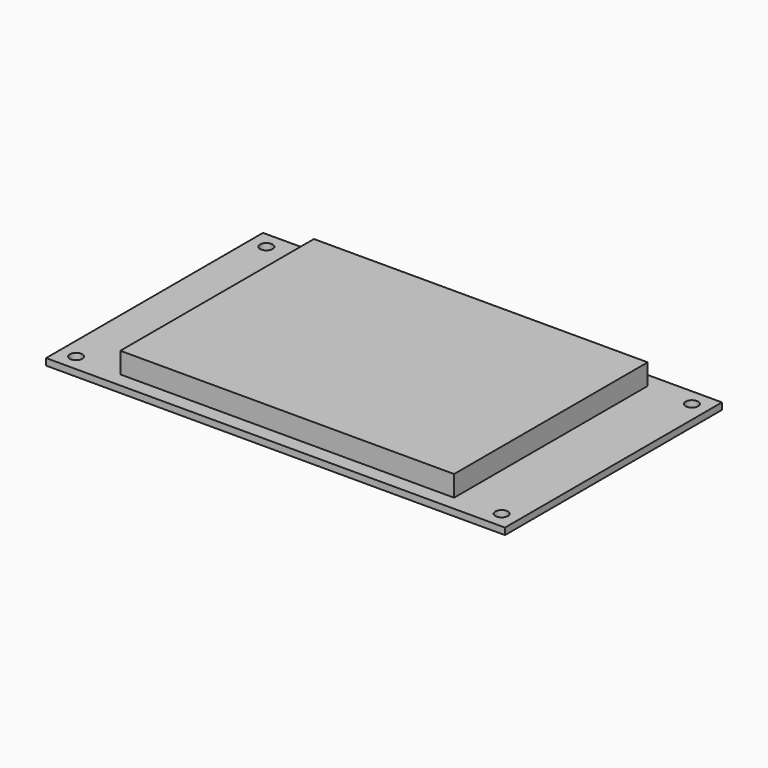
from build123d import *

# Parameters (mm, degrees)
SKETCH_W     = 110
SKETCH_H     = 65
SKETCH_R     = 1.5
PAD_DEPTH    = 1.6
SKETCH001_W  = 80
SKETCH001_H  = 58
PAD001_DEPTH = 5


with BuildPart() as part:
    # Sketch → Pad (new body)
    with BuildSketch(Plane.XY):
        Rectangle(SKETCH_W, SKETCH_H)
        with Locations((-51, 28.5)):
            Circle(SKETCH_R, mode=Mode.SUBTRACT)
        with Locations((51, 28.5)):
            Circle(SKETCH_R, mode=Mode.SUBTRACT)
        with Locations((51, -28.5)):
            Circle(SKETCH_R, mode=Mode.SUBTRACT)
        with Locations((-51, -28.5)):
            Circle(SKETCH_R, mode=Mode.SUBTRACT)
    extrude(amount=PAD_DEPTH)

    # Sketch001 → Pad001 (new body)
    with BuildSketch(Plane.XY.offset(1.6)):
        Rectangle(SKETCH001_W, SKETCH001_H)
    extrude(amount=PAD001_DEPTH)


solid = part.part
